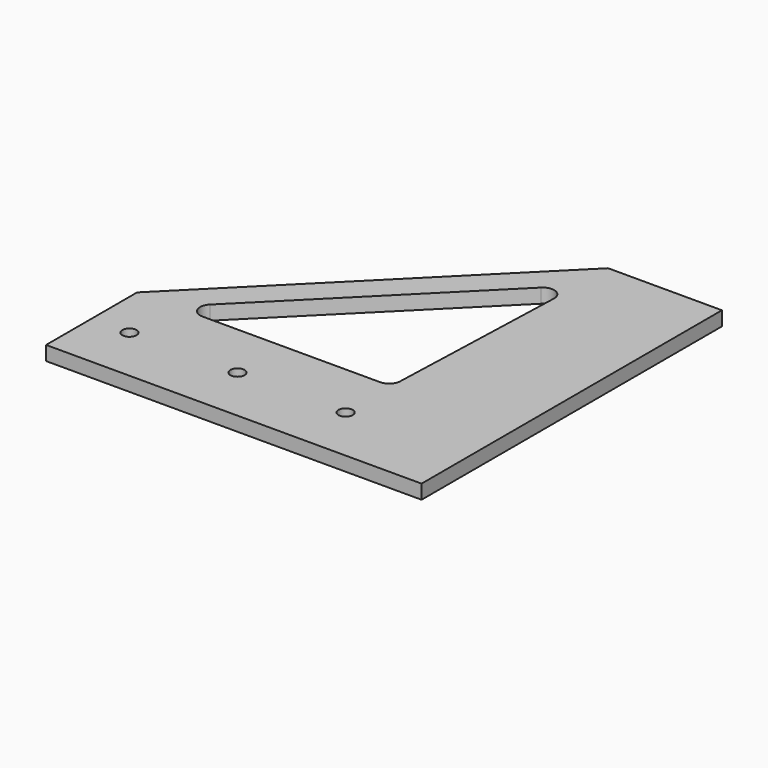
from build123d import *

# Parameters (mm, degrees)
F0_R     = 1.5875
F1_DEPTH = 3.175
F2_R     = 2.54


with BuildPart() as f1:
    # F0 (on Top) → F1 (new body)
    with BuildSketch(Plane.XY):
        Polygon((19.640194, 106.89594), (-38.779806, 48.47594), (-38.779806, 23.07594), (45.040194, 23.07594), (45.040194, 106.89594), align=None)
        with Locations((-30.340388, 35.77594)):
            Circle(F0_R, mode=Mode.SUBTRACT)
        with Locations((-6.210388, 35.77594)):
            Circle(F0_R, mode=Mode.SUBTRACT)
        with Locations((17.919612, 35.77594)):
            Circle(F0_R, mode=Mode.SUBTRACT)
        Polygon((17.919612, 48.47594), (-30.340388, 48.47594), (19.640194, 98.456522), align=None, mode=Mode.SUBTRACT)
    extrude(amount=F1_DEPTH)

    # F2
    f2_edges = [f1.edges().sort_by_distance(p)[0] for p in [
        (-30.340388, 48.47594, 1.5875),
        (17.919612, 48.47594, 1.5875),
        (19.640194, 98.456522, 1.5875),
    ]]
    fillet(f2_edges, radius=F2_R)


solid = f1.part
